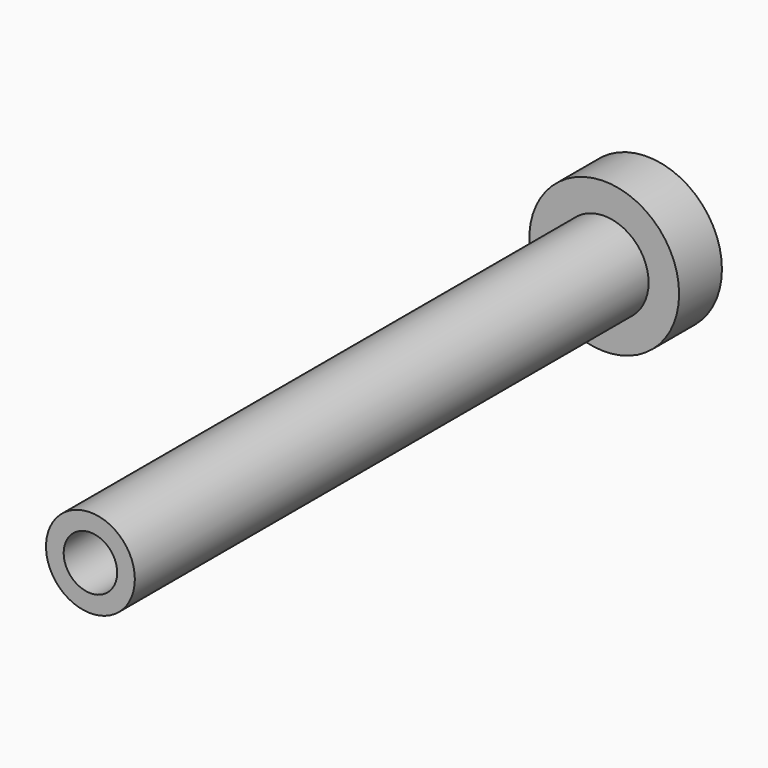
from build123d import *

# Parameters (mm, degrees)
F0_R      = 4.15
F1_DEPTH  = 60
F0_R_2    = 7
F1_FACE_R = 4.15
F2_DEPTH  = 5
F4_D      = 5
F4_DEPTH  = 15
F4_TIP    = 1.5021515476


with BuildPart() as f1:
    # F0 (on Front) → F1 (new body)
    with BuildSketch(Plane.XZ):
        Circle(F0_R)
    extrude(amount=F1_DEPTH)

    # F0 (on Front) + F1_face (on face) → F2 (join)
    with BuildSketch(Plane.XZ):
        Circle(F0_R_2)
        Circle(F0_R, mode=Mode.SUBTRACT)
    with BuildSketch(Plane(origin=(0, 0, 0), x_dir=(1, 0, 0), z_dir=(0, 1, 0))):
        Circle(F1_FACE_R)
    extrude(amount=-F2_DEPTH, dir=(0, -1, 0))

    # F4
    with Locations(Plane.XZ.offset(60)):
        with Locations((0, 0)):
            Hole(F4_D / 2, depth=F4_DEPTH)
            with Locations((0, 0, -(F4_DEPTH + F4_TIP / 2))):  # 118° drill point
                Cone(0, F4_D / 2, F4_TIP, mode=Mode.SUBTRACT)


solid = f1.part
